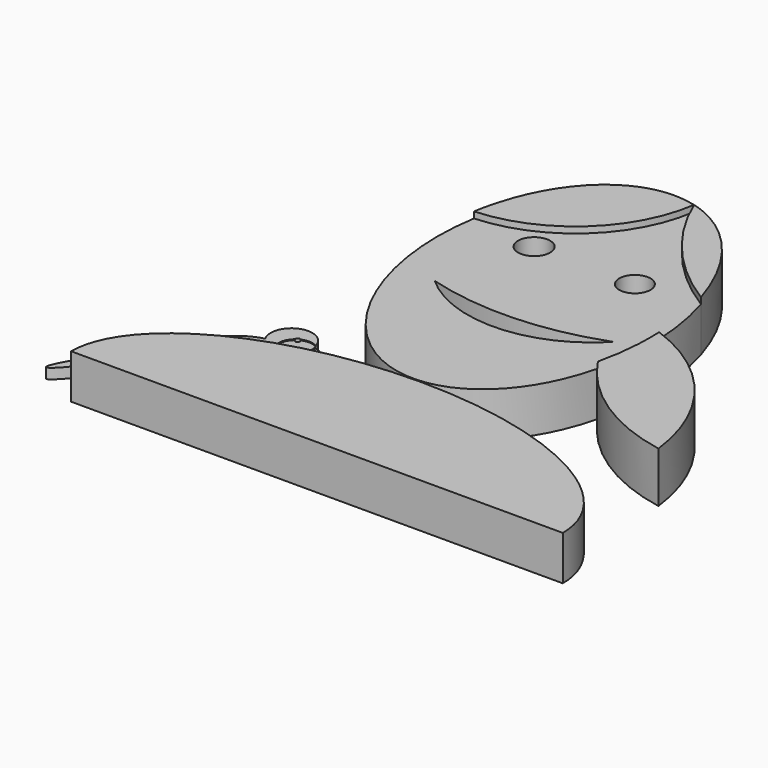
from build123d import *

# Parameters (mm, degrees)
F0_R     = 9.1919617787
F0_R_2   = 8.941811484
F1_DEPTH = 25.4
F2_DEPTH = 28.956
F3_DEPTH = 5.334
F4_DEPTH = 5.842
F5_DEPTH = 4.064
F6_DEPTH = 4.3942
F7_DEPTH = 1.143
F8_DEPTH = 25.4


with BuildPart() as f1:
    # F0 (on Top) → F1 (new body)
    with BuildSketch(Plane.XY):
        with BuildLine():
            ThreePointArc((54.2814519107, -20.486548443), (5.6713921395, -41.3898446204), (-43.9885482192, -23.1203064322))
            ThreePointArc((-43.9885482192, -23.1203064322), (5.2908615008, -29.2481698011), (54.0525705776, -19.8510074782))
            ThreePointArc((54.0525705776, -19.8510074782), (50.9829265471, -9.7809707593), (48.8677584159, 0.5318570669))
            ThreePointArc((48.8677584159, 0.5318570669), (59.3854916554, -1.5294207895), (69.6438311121, -4.6339417649))
            add(Edge.make_bspline(
                [(69.6438311121, -4.6339417649), (68.7776626739, 14.9385056822), (63.0987485763, 33.4656249575)],
                knots=[4.5770132748, 4.5770132748, 4.5770132748, 4.9533298711, 4.9533298711, 4.9533298711], degree=2, weights=[1, 0.9823503913, 1]))
            ThreePointArc((63.0987485763, 33.4656249575), (28.73820981, 62.8210112132), (4.9082928212, 101.2204953612))
            ThreePointArc((4.9082928212, 101.2204953612), (-19.6009683038, 55.0291057496), (-67.8617044454, 34.8982910065))
            add(Edge.make_bspline(
                [(-67.8617044454, 34.8982910065), (-83.4109465788, -57.4300297917), (-19.4880703387, -95.0402792456), (44.4348059014, -132.6505286995), (66.0211747724, -43.8742671316)],
                knots=[1.1344435896, 1.1344435896, 1.1344435896, 2.6580003907, 2.6580003907, 4.1815571919, 4.1815571919, 4.1815571919], degree=2, weights=[1, 0.7236096869, 1, 0.7236096869, 1]))
            ThreePointArc((66.0211747724, -43.8742671316), (59.469153982, -32.5228251875), (54.2814519107, -20.486548443))
        make_face()
        with Locations((-29.8608392477, 30.3937457502)):
            Circle(F0_R, mode=Mode.SUBTRACT)
        with Locations((27.9343370348, 30.179688707)):
            Circle(F0_R_2, mode=Mode.SUBTRACT)
        with BuildLine():
            ThreePointArc((55.3798085205, -19.3636932587), (54.8337158814, -19.9281391932), (54.2814519107, -20.486548443))
            ThreePointArc((54.2814519107, -20.486548443), (59.469153982, -32.5228251875), (66.0211747724, -43.8742671316))
            add(Edge.make_bspline(
                [(66.0211747724, -43.8742671316), (70.5551938683, -25.2276263918), (69.6438311121, -4.6339417649)],
                knots=[4.1815571919, 4.1815571919, 4.1815571919, 4.5770132748, 4.5770132748, 4.5770132748], degree=2, weights=[1, 0.9805154165, 1]))
            ThreePointArc((69.6438311121, -4.6339417649), (59.3854916554, -1.5294207895), (48.8677584159, 0.5318570669))
            ThreePointArc((48.8677584159, 0.5318570669), (50.9829265471, -9.7809707593), (54.0525705776, -19.8510074782))
            ThreePointArc((54.0525705776, -19.8510074782), (54.7167320621, -19.6088279446), (55.3798085205, -19.3636932587))
        make_face()
    extrude(amount=F1_DEPTH)


with BuildPart() as f2:
    # F0 (on Top) → F2 (new body)
    with BuildSketch(Plane.XY):
        with BuildLine():
            add(Edge.make_bspline(
                [(-13.9066405743, 102.4756413709), (-57.4766142799, 96.5629000008), (-67.8617044454, 34.8982910065)],
                knots=[0, 0, 0, 1.1344435896, 1.1344435896, 1.1344435896], degree=2, weights=[1, 0.8433969327, 1]))
            ThreePointArc((-67.8617044454, 34.8982910065), (-19.6009683038, 55.0291057496), (4.9082928212, 101.2204953612))
            add(Edge.make_bspline(
                [(4.9082928212, 101.2204953612), (-4.5827926201, 103.7409508682), (-13.9066405743, 102.4756413709)],
                knots=[6.0121996252, 6.0121996252, 6.0121996252, 6.2831853072, 6.2831853072, 6.2831853072], degree=2, weights=[1, 0.9908348792, 1]))
        make_face()
    extrude(amount=F2_DEPTH)


with BuildPart() as f2b:
    # F0 (on Top) → F2, piece 2 (new body)
    with BuildSketch(Plane.XY):
        with BuildLine():
            add(Edge.make_bspline(
                [(63.0987485763, 33.4656249575), (45.6466676764, 90.4020002706), (4.9082928212, 101.2204953612)],
                knots=[4.9533298711, 4.9533298711, 4.9533298711, 6.0121996252, 6.0121996252, 6.0121996252], degree=2, weights=[1, 0.8630926212, 1]))
            ThreePointArc((4.9082928212, 101.2204953612), (28.73820981, 62.8210112132), (63.0987485763, 33.4656249575))
        make_face()
    extrude(amount=F2_DEPTH)


with BuildPart() as f2c:
    # F0 (on Top) → F2, piece 3 (new body)
    with BuildSketch(Plane.XY):
        with BuildLine():
            add(Edge.make_bspline(
                [(66.0211747724, -43.8742671316), (70.5551938683, -25.2276263918), (69.6438311121, -4.6339417649)],
                knots=[4.1815571919, 4.1815571919, 4.1815571919, 4.5770132748, 4.5770132748, 4.5770132748], degree=2, weights=[1, 0.9805154165, 1]))
            ThreePointArc((66.0211747724, -43.8742671316), (97.8737971337, -75.8398619885), (139.7235989571, -92.721298337))
            ThreePointArc((139.7235989571, -92.721298337), (117.2228398706, -38.701852907), (69.6438311121, -4.6339417649))
        make_face()
    extrude(amount=F2_DEPTH)


with BuildPart() as f3:
    # F0 (on Top) → F3 (new body)
    with BuildSketch(Plane.XY):
        with BuildLine():
            add(Edge.make_bspline(
                [(-83.0994918942, -86.1158072948), (-83.6412150845, -85.7058546187), (-84.2553011095, -85.3957658877)],
                knots=[0, 0, 0, 0.0868333935, 0.0868333935, 0.0868333935], degree=2, weights=[1, 0.9990576433, 1]))
            add(Edge.make_bspline(
                [(-81.1778735326, -88.240048943), (-81.9682390766, -86.9718904907), (-83.0994918942, -86.1158072948)],
                knots=[6.1022368975, 6.1022368975, 6.1022368975, 6.2831853072, 6.2831853072, 6.2831853072], degree=2, weights=[1, 0.9959100002, 1]))
            add(Edge.make_bspline(
                [(-80.084228465, -90.7137771151), (-80.4942558901, -89.3369280997), (-81.1778735326, -88.240048943)],
                knots=[5.9456201189, 5.9456201189, 5.9456201189, 6.1022368975, 6.1022368975, 6.1022368975], degree=2, weights=[1, 0.9969354646, 1]))
            ThreePointArc((-80.084228465, -90.7137771151), (-74.3169897565, -88.5678989261), (-70.3901070429, -83.8302383561))
            ThreePointArc((-70.3901070429, -83.8302383561), (-69.710085467, -81.9484404715), (-69.3546239847, -79.9793696865))
            ThreePointArc((-69.3546239847, -79.9793696865), (-69.3337348895, -77.9788050542), (-69.647948966, -76.0029597373))
            ThreePointArc((-69.647948966, -76.0029597373), (-74.0950641922, -74.6346478465), (-78.6669591995, -75.4988742682))
            ThreePointArc((-78.6669591995, -75.4988742682), (-78.3531898884, -75.9473832877), (-78.242577397, -76.4834582806))
            ThreePointArc((-78.242577397, -76.4834582806), (-79.3831076056, -77.8208057543), (-80.8837341626, -76.9056951823))
            ThreePointArc((-80.8837341626, -76.9056951823), (-83.633758931, -80.7281002769), (-84.2553011095, -85.3957658877))
        make_face()
        with BuildLine():
            add(Edge.make_bspline(
                [(-80.084228465, -90.7137771151), (-80.4942558901, -89.3369280997), (-81.1778735326, -88.240048943)],
                knots=[5.9456201189, 5.9456201189, 5.9456201189, 6.1022368975, 6.1022368975, 6.1022368975], degree=2, weights=[1, 0.9969354646, 1]))
            ThreePointArc((-81.1778735326, -88.240048943), (-98.2432971892, -112.6088159317), (-125.6617229247, -124.1541794733))
            add(Edge.make_bspline(
                [(-125.6617229247, -124.1541794733), (-125.7841124917, -124.7674445793), (-125.8790200061, -125.3656654109)],
                knots=[2.3626830968, 2.3626830968, 2.3626830968, 2.4116405667, 2.4116405667, 2.4116405667], degree=2, weights=[1, 0.9997004107, 1]))
            add(Edge.make_bspline(
                [(-125.8790200061, -125.3656654109), (-126.9048952713, -131.8319600829), (-124.7814478428, -135.7297556882)],
                knots=[2.4116405667, 2.4116405667, 2.4116405667, 2.9290753838, 2.9290753838, 2.9290753838], degree=2, weights=[1, 0.9667189125, 1]))
            add(Edge.make_bspline(
                [(-124.7814478428, -135.7297556882), (-117.2444167447, -149.5647140189), (-96.2100991649, -128.3803897444), (-75.1757815852, -107.1960654699), (-80.084228465, -90.7137771151)],
                knots=[2.9290753838, 2.9290753838, 2.9290753838, 4.4373477514, 4.4373477514, 5.9456201189, 5.9456201189, 5.9456201189], degree=2, weights=[1, 0.7288632349, 1, 0.7288632349, 1]))
        make_face()
    extrude(amount=F3_DEPTH)


with BuildPart() as f4:
    # F0 (on Top) → F4 (new body)
    with BuildSketch(Plane.XY):
        with BuildLine():
            add(Edge.make_bspline(
                [(-84.2553011095, -85.3957658877), (-87.2335481938, -83.8918709588), (-91.5391989947, -84.7955273251)],
                knots=[0.0868333935, 0.0868333935, 0.0868333935, 0.5021554475, 0.5021554475, 0.5021554475], degree=2, weights=[1, 0.9785158211, 1]))
            ThreePointArc((-84.2553011095, -85.3957658877), (-83.633758931, -80.7281002769), (-80.8837341626, -76.9056951823))
            ThreePointArc((-80.8837341626, -76.9056951823), (-80.3225976241, -75.3399630346), (-78.6669591995, -75.4988742682))
            ThreePointArc((-78.6669591995, -75.4988742682), (-74.0950641922, -74.6346478465), (-69.647948966, -76.0029597373))
            ThreePointArc((-69.647948966, -76.0029597373), (-85.6535680372, -67.8011492958), (-91.5391989947, -84.7955273251))
        make_face()
        with BuildLine():
            add(Edge.make_bspline(
                [(-81.1778735326, -88.240048943), (-81.9682390766, -86.9718904907), (-83.0994918942, -86.1158072948)],
                knots=[6.1022368975, 6.1022368975, 6.1022368975, 6.2831853072, 6.2831853072, 6.2831853072], degree=2, weights=[1, 0.9959100002, 1]))
            add(Edge.make_bspline(
                [(-83.0994918942, -86.1158072948), (-83.6412150845, -85.7058546187), (-84.2553011095, -85.3957658877)],
                knots=[0, 0, 0, 0.0868333935, 0.0868333935, 0.0868333935], degree=2, weights=[1, 0.9990576433, 1]))
            add(Edge.make_bspline(
                [(-84.2553011095, -85.3957658877), (-87.2335481938, -83.8918709588), (-91.5391989947, -84.7955273251)],
                knots=[0.0868333935, 0.0868333935, 0.0868333935, 0.5021554475, 0.5021554475, 0.5021554475], degree=2, weights=[1, 0.9785158211, 1]))
            add(Edge.make_bspline(
                [(-91.5391989947, -84.7955273251), (-118.9552266391, -90.5495164586), (-125.6617229247, -124.1541794733)],
                knots=[0.5021554475, 0.5021554475, 0.5021554475, 2.3626830968, 2.3626830968, 2.3626830968], degree=2, weights=[1, 0.5976224744, 1]))
            ThreePointArc((-125.6617229247, -124.1541794733), (-98.2432971892, -112.6088159317), (-81.1778735326, -88.240048943))
        make_face()
    extrude(amount=F4_DEPTH)


with BuildPart() as f4b:
    # F0 (on Top) → F4, piece 2 (new body)
    with BuildSketch(Plane.XY):
        with BuildLine():
            add(Edge.make_bspline(
                [(-125.8790200061, -125.3656654109), (-151.8436327354, -158.3181810622), (-150.9359066688, -166.8896037129), (-150.0281806022, -175.4610263636), (-124.7814478428, -135.7297556882)],
                knots=[1.0292882328, 1.0292882328, 1.0292882328, 3.0066179611, 3.0066179611, 4.9839476894, 4.9839476894, 4.9839476894], degree=2, weights=[1, 0.5498055795, 1, 0.5498055795, 1]))
            add(Edge.make_bspline(
                [(-125.8790200061, -125.3656654109), (-126.9048952713, -131.8319600829), (-124.7814478428, -135.7297556882)],
                knots=[2.4116405667, 2.4116405667, 2.4116405667, 2.9290753838, 2.9290753838, 2.9290753838], degree=2, weights=[1, 0.9667189125, 1]))
        make_face()
    extrude(amount=F4_DEPTH)


with BuildPart() as f5:
    # F0 (on Top) → F5 (new body)
    with BuildSketch(Plane.XY):
        with BuildLine():
            ThreePointArc((-78.6669591995, -75.4988742682), (-80.3225976241, -75.3399630346), (-80.8837341626, -76.9056951823))
            ThreePointArc((-80.8837341626, -76.9056951823), (-79.3831076056, -77.8208057543), (-78.242577397, -76.4834582806))
            ThreePointArc((-78.242577397, -76.4834582806), (-78.3531898884, -75.9473832877), (-78.6669591995, -75.4988742682))
        make_face()
    extrude(amount=F5_DEPTH)


with BuildPart() as f6:
    # F0 (on Top) → F6 (new body)
    with BuildSketch(Plane.XY):
        with BuildLine():
            ThreePointArc((-62.8613084555, -84.5982208848), (-64.3703460451, -78.8127996724), (-69.647948966, -76.0029597373))
            ThreePointArc((-69.647948966, -76.0029597373), (-69.3337348895, -77.9788050542), (-69.3546239847, -79.9793696865))
            ThreePointArc((-69.3546239847, -79.9793696865), (-67.212063422, -80.6112884576), (-65.289040486, -81.7478929998))
            ThreePointArc((-65.289040486, -81.7478929998), (-63.9264375914, -83.0463721184), (-62.8613084555, -84.5982208848))
        make_face()
    extrude(amount=F6_DEPTH)

    # F0 (on Top) → F7 (join)
    with BuildSketch(Plane.XY):
        with BuildLine():
            ThreePointArc((-69.3546239847, -79.9793696865), (-69.710085467, -81.9484404715), (-70.3901070429, -83.8302383561))
            ThreePointArc((-70.3901070429, -83.8302383561), (-67.3942082518, -83.8800658404), (-65.289040486, -81.7478929998))
            ThreePointArc((-65.289040486, -81.7478929998), (-67.212063422, -80.6112884576), (-69.3546239847, -79.9793696865))
        make_face()
    extrude(amount=F7_DEPTH)


with BuildPart() as f8:
    # F0 (on Top) → F8 (new body)
    with BuildSketch(Plane.XY):
        with BuildLine():
            Line((-128.1265723673, -177.7723282576), (153.0662323502, -177.7723282576))
            add(Edge.make_bspline(
                [(153.0662323502, -177.7723282576), (153.0662323502, -103.397987783), (12.4698299915, -103.397987783), (-128.1265723673, -103.397987783), (-128.1265723673, -177.7723282576)],
                knots=[3.1415926536, 3.1415926536, 3.1415926536, 4.7123889804, 4.7123889804, 6.2831853072, 6.2831853072, 6.2831853072], degree=2, weights=[1, 0.7071067812, 1, 0.7071067812, 1]))
        make_face()
    extrude(amount=F8_DEPTH)


solid = Compound([f1.part, f2.part, f2b.part, f2c.part, f3.part, f4.part, f4b.part, f5.part, f6.part, f8.part])
